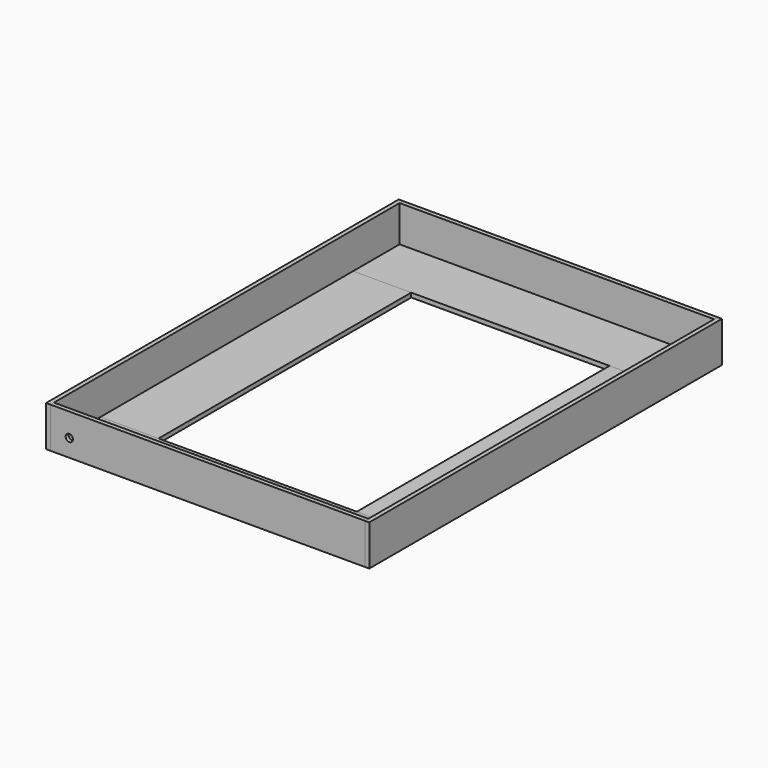
from build123d import *

# Parameters (mm, degrees)
F0_W      = 1374.775
F0_H      = 254
F1_DEPTH  = 19.05
F2_W      = 254
F2_H      = 1381.125
F3_DEPTH  = 19.05
F4_W      = 19.05
F4_H      = 1927.225
F5_DEPTH  = 177.8
F6_W      = 1374.775
F6_H      = 19.05
F7_DEPTH  = 177.8
F8_R      = 15.875
F9_DEPTH  = 15.875
F10_R     = 15.875
F11_DEPTH = 15.875


with BuildPart() as f1:
    # F0 (on Top) → F1 (new body)
    with BuildSketch(Plane.XY):
        with Locations((0, -817.5625)):
            Rectangle(F0_W, F0_H)
        with Locations((0, 817.5625)):
            Rectangle(F0_W, F0_H)
    extrude(amount=F1_DEPTH)


with BuildPart() as f3:
    # F2 (on Top) → F3 (new body, through all)
    with BuildSketch(Plane.XY):
        with Locations((-560.3875, 0)):
            Rectangle(F2_W, F2_H)
        with Locations((560.3875, 0)):
            Rectangle(F2_W, F2_H)
    extrude(amount=F3_DEPTH)


with BuildPart() as f5:
    # F4 (on Top) → F5 (new body)
    with BuildSketch(Plane.XY):
        with Locations((-696.9125, 0)):
            Rectangle(F4_W, F4_H)
        with Locations((696.9125, 0)):
            Rectangle(F4_W, F4_H)
    extrude(amount=F5_DEPTH)


with BuildPart() as f7:
    # F6 (on Top) → F7 (new body, through all)
    with BuildSketch(Plane.XY):
        with Locations((0, -954.0875)):
            Rectangle(F6_W, F6_H)
        with Locations((0, 954.0875)):
            Rectangle(F6_W, F6_H)
    extrude(amount=F7_DEPTH)

    # F8 (on face) → F9 (cut)
    with BuildSketch(Plane.XZ.offset(963.6125)):
        with Locations((-604.8375, 76.2)):
            Circle(F8_R)
    extrude(amount=-F9_DEPTH, mode=Mode.SUBTRACT)

    # F10 (on face) → F11 (cut)
    with BuildSketch(Plane(origin=(0, 963.6125, 0), x_dir=(-1, 0, 0), z_dir=(0, 1, 0))):
        with Locations((604.8375, 76.2)):
            Circle(F10_R)
    extrude(amount=-F11_DEPTH, mode=Mode.SUBTRACT)


solid = Compound([f1.part, f3.part, f5.part, f7.part])
